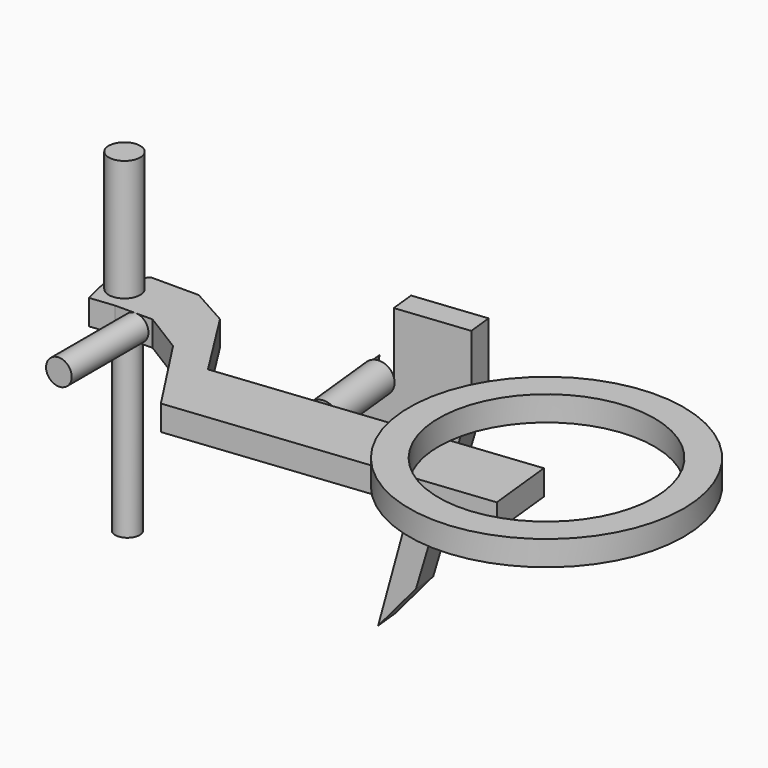
from build123d import *

# Parameters (mm, degrees)
F0_R      = 15.9677519262
F1_DEPTH  = 21.336
F2_DEPTH  = 147.828
F3_R      = 12.3279515552
F4_DEPTH  = 187.706
F5_DEPTH  = 25.4
F6_W      = 69.1631390607
F6_H      = 25.4
F7_DEPTH  = 314.452
F8_R      = 138.7088529406
F8_R_2    = 108.9226078154
F9_DEPTH  = 25.146
F10_R     = 15.44449375
F11_DEPTH = 81.026
F13_DEPTH = 25.4
F14_DEPTH = 61.214
F15_R     = 12.9620128587
F16_DEPTH = 97.028


with BuildPart() as f1:
    # F0 (on Top) → F1 (new body)
    with BuildSketch(Plane.XY):
        Polygon((-156.6965579987, 31.491111964), (-102.7367115021, -51.3543523848), (-110.150039196, 17.4103360623), (-156.4325243235, 90.4818549752), (-195.3068226576, 112.1664866805), (-242.6634728909, 112.1664866805), (-268.4712409973, 90.4818549752), (-260.1083906974, 54.2156940101), (-235.6438338757, 56.8531490862), (-197.6939886808, 56.8531490862), align=None)
        with Locations((-247.3211288452, 83.3618193865)):
            Circle(F0_R, mode=Mode.SUBTRACT)
        with Locations((-247.3211288452, 83.3618193865)):
            Circle(F0_R)
    extrude(amount=F1_DEPTH)

    # F0 (on Top) → F2 (join)
    with BuildSketch(Plane.XY):
        with Locations((-247.3211288452, 83.3618193865)):
            Circle(F0_R)
    extrude(amount=F2_DEPTH)

    # F3 (on face) → F4 (join)
    with BuildSketch(Plane(origin=(0, 0, 0), x_dir=(1, 0, 0), z_dir=(0, 0, -1))):
        with Locations((-243.3518618345, -82.0970386267)):
            Circle(F3_R)
    extrude(amount=F4_DEPTH)

    # F0 (on Top) → F5 (join)
    with BuildSketch(Plane.XY):
        Polygon((-156.6965579987, 31.491111964), (-102.7367115021, -51.3543523848), (-110.150039196, 17.4103360623), (-156.4325243235, 90.4818549752), (-195.3068226576, 112.1664866805), (-242.6634728909, 112.1664866805), (-268.4712409973, 90.4818549752), (-260.1083906974, 54.2156940101), (-235.6438338757, 56.8531490862), (-197.6939886808, 56.8531490862), align=None)
        with Locations((-247.3211288452, 83.3618193865)):
            Circle(F0_R, mode=Mode.SUBTRACT)
    extrude(amount=F5_DEPTH)

    # F6 (on face) → F7 (join)
    with BuildSketch(Plane(origin=(-107.0291453779, -11.5385111953, 0), x_dir=(-0.107186108, 0.9942389744, 0), z_dir=(0.9942389744, 0.107186108, 0))):
        with Locations((-5.4649808605, 12.7)):
            Rectangle(F6_W, F6_H)
    extrude(amount=F7_DEPTH)

    # F8 (on face) → F9 (join)
    with BuildSketch(Plane.XY.offset(25.4)):
        with Locations((223.3296185732, 28.4695085138)):
            Circle(F8_R)
        with Locations((223.3296185732, 28.4695085138)):
            Circle(F8_R_2, mode=Mode.SUBTRACT)
    extrude(amount=F9_DEPTH)

    # F10 (on face) → F11 (join)
    with BuildSketch(Plane(origin=(-3.1208938182, 28.9488472576, 0), x_dir=(-0.9942389744, -0.107186108, 0), z_dir=(-0.107186108, 0.9942389744, 0))):
        with Locations((0, 12.6002421603)):
            Circle(F10_R)
    extrude(amount=F11_DEPTH)



with BuildPart() as f13:
    # F12 (on face) → F13 (new body)
    with BuildSketch(Plane(origin=(-11.8057554061, 109.5080543987, 0), x_dir=(-0.9942389744, -0.107186108, 0), z_dir=(-0.107186108, 0.9942389744, 0))):
        with BuildLine():
            ThreePointArc((15.44449375, 12.6002421603), (-2.4479012005, -2.6490255895), (-14.6685252547, 17.4341592101))
            Line((-14.6685252547, 17.4341592101), (-87.2451700878, 17.4341592101))
            Line((-87.2451700878, 17.4341592101), (-35.4883559048, -165.4134243727))
            Line((-35.4883559048, -165.4134243727), (0, -208.2339674234))
            Line((0, -208.2339674234), (-35.4883559048, -71.1505264044))
            Line((-35.4883559048, -71.1505264044), (38.9573626197, -51.8779130606))
            Line((38.9573626197, -51.8779130606), (14.5756592471, 17.7073494339))
            ThreePointArc((14.5756592471, 17.7073494339), (15.2257358662, 15.1904843351), (15.44449375, 12.6002421603))
        make_face()
    extrude(amount=F13_DEPTH)


with BuildPart() as f1_1:
    add(f1.part)
    # F14 (add): a face of the model
    f14_faces = [f13.part.faces().sort_by_distance(p)[0] for p in [
        (37.4962649903, 127.5967555523, 17.4341592101),
    ]]

    add(f13.part)  # F14 merges F13
    extrude(f14_faces, amount=F14_DEPTH)

    # F15 (on face) → F16 (join)
    with BuildSketch(Plane.XZ.offset(-56.8531490862)):
        with Locations((-214.8055583239, 12.4379871413)):
            Circle(F15_R)
    extrude(amount=F16_DEPTH)


solid = f1_1.part
